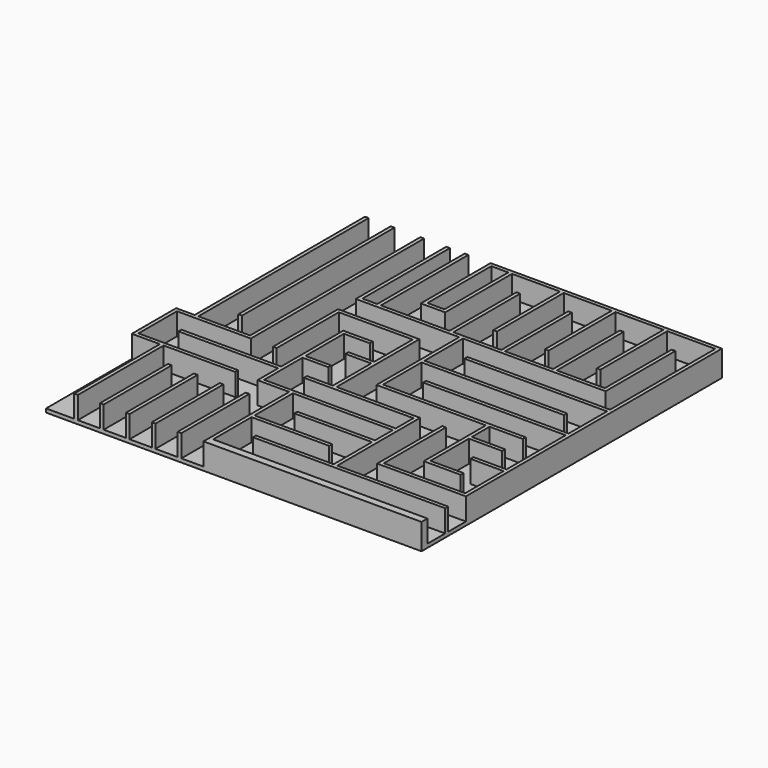
from build123d import *

# Parameters (mm, degrees)
F0_W      = 101.6
F0_H      = 101.6
F1_DEPTH  = 7
F3_DEPTH  = 6
F4_W      = 5
F4_H      = 57.6000098
F5_DEPTH  = 6
F6_W      = 6
F6_H      = 29.5999916
F6_W_2    = 4
F6_W_3    = 4.6
F6_H_2    = 21.5999916
F7_DEPTH  = 6
F9_DEPTH  = 6
F11_DEPTH = 6
F12_W     = 22.6
F12_H     = 1
F13_DEPTH = 6
F15_DEPTH = 6


with BuildPart() as f1:
    # F0 (on Top) → F1 (new body)
    with BuildSketch(Plane.XY):
        Rectangle(F0_W, F0_H)
    extrude(amount=F1_DEPTH)

    # F2 (on face) → F3 (cut)
    with BuildSketch(Plane.XY.offset(7)):
        Polygon((-1.2, -42.8), (-1.2, -41.8), (19.8, -41.8), (19.8, -28.8), (-1.2, -28.8), (-1.2, -27.8), (19.8, -27.8), (19.8, -21.8), (-7.2, -21.8), (-7.2, -34.8), (13.8, -34.8), (13.8, -35.8), (-7.2, -35.8), (-7.2, -48.8), (50.8, -48.8), (50.8, -42.8), align=None)
    extrude(amount=-F3_DEPTH, mode=Mode.SUBTRACT)

    # F4 (on face) → F5 (cut)
    with BuildSketch(Plane.XY.offset(7)):
        with Locations((-48.3, 21.9999951)):
            Rectangle(F4_W, F4_H)
        Polygon((-44.8, 50.8), (-44.8, -6.8000098), (-30.8, -6.8000098), (-30.8, 50.8), (-37.8, 50.8), (-37.8, -0.8000098), (-38.8, -0.8000098), (-38.8, 50.8), align=None)
    extrude(amount=-F5_DEPTH, mode=Mode.SUBTRACT)

    # F6 (on face) → F7 (cut)
    with BuildSketch(Plane.XY.offset(7)):
        with Locations((-26.8, 36.0000042)):
            Rectangle(F6_W, F6_H)
        with Locations((-20.8, 36.0000042)):
            Rectangle(F6_W_2, F6_H)
        Polygon((-17.8, 50.8), (-17.8, 21.2000084), (0.8, 21.2000084), (0.8, 43.8), (1.8, 43.8), (1.8, 21.2000084), (14.8, 21.2000084), (14.8, 43.8), (15.8, 43.8), (15.8, 21.2000084), (28.8, 21.2000084), (28.8, 43.8), (29.8, 43.8), (29.8, 21.2000084), (42.8, 21.2000084), (42.8, 43.8), (43.8, 43.8), (43.8, 21.2000084), (49.8, 21.2000084), (49.8, 49.8), (36.8, 49.8), (36.8, 27.2000084), (35.8, 27.2000084), (35.8, 49.8), (22.8, 49.8), (22.8, 27.2000084), (21.8, 27.2000084), (21.8, 49.8), (8.8, 49.8), (8.8, 27.2000084), (7.8, 27.2000084), (7.8, 49.8), (-5.2, 49.8), (-5.2, 28.2000084), (-5.2, 27.2000084), (-6.2, 27.2000084), (-10.8, 27.2000084), (-11.8, 27.2000084), (-11.8, 28.2000084), (-11.8, 49.8), (-11.8, 50.8), align=None)
        with Locations((-8.5, 39.0000042)):
            Rectangle(F6_W_3, F6_H_2)
    extrude(amount=-F7_DEPTH, mode=Mode.SUBTRACT)

    # F8 (on face) → F9 (cut)
    with BuildSketch(Plane.XY.offset(7)):
        Polygon((-29.8, 21.2000084), (-29.8, 14.2000084), (-1.8, 14.2000084), (-1.8, -13.8), (19.8, -13.8), (20.8, -13.8), (20.8, -41.8), (50.8, -41.8), (50.8, -35.8), (26.8, -35.8), (26.8, -34.8), (26.8, -6.8), (4.2, -6.8), (4.2, 20.2000084), (-22.8, 20.2000084), (-23.8, 20.2000084), (-23.8, 21.2000084), align=None)
    extrude(amount=-F9_DEPTH, mode=Mode.SUBTRACT)

    # F10 (on face) → F11 (cut)
    with BuildSketch(Plane.XY.offset(7)):
        Polygon((49.8, 21.2000084), (43.8, 21.2000084), (43.8, 20.2000084), (5.2, 20.2000084), (5.2, 7.2000084), (43.8, 7.2000084), (43.8, 6.2000084), (5.2, 6.2000084), (5.2, -5.8), (5.2, -6.8), (26.8, -6.8), (43.8, -6.8), (43.8, -7.8), (34.8, -7.8), (34.8, -13.8), (43.8, -13.8), (43.8, -14.8), (34.8, -14.8), (34.8, -27.8), (43.8, -27.8), (43.8, -28.8), (34.8, -28.8), (33.8, -28.8), (33.8, -7.8), (26.8, -7.8), (26.8, -13.8), (27.8, -13.8), (27.8, -34.8), (49.8, -34.8), (49.8, -21.8), (40.8, -21.8), (40.8, -20.8), (49.8, -20.8), (49.8, -7.8), (49.8, -6.8), (49.8, -0.7999916), (11.2, -0.7999916), (11.2, 0.2000084), (49.8, 0.2000084), (49.8, 13.2000084), (11.2, 13.2000084), (11.2, 14.2000084), (49.8, 14.2000084), align=None)
    extrude(amount=-F11_DEPTH, mode=Mode.SUBTRACT)

    # F12 (on face) → F13 (join)
    with BuildSketch(Plane.XY.offset(1)):
        with Locations((15.5, -7.3)):
            Rectangle(F12_W, F12_H)
    extrude(amount=F13_DEPTH)

    # F14 (on face) → F15 (cut)
    with BuildSketch(Plane.XY.offset(7)):
        Polygon((-29.8, -6.8000098), (-29.8, -7.8000098), (-49.8, -7.8000098), (-49.8, -20.8000098), (-22.8, -20.8000098), (-22.8, -21.8), (-42.2, -21.8), (-42.2, -27.8), (-42.2, -50.8), (-36.2, -50.8), (-36.2, -27.8), (-35.2, -27.8), (-35.2, -50.8), (-29.2, -50.8), (-29.2, -27.8), (-28.2, -27.8), (-28.2, -50.8), (-22.2, -50.8), (-22.2, -27.8), (-21.2, -27.8), (-21.2, -50.8), (-15.2, -50.8), (-15.2, -27.8), (-14.2, -27.8), (-14.2, -50.8), (-8.2, -50.8), (-8.2, -21.8), (-16.8, -21.8), (-16.8, -20.8000098), (-16.8, -14.8000098), (-43.8, -14.8000098), (-43.8, -13.8000098), (-16.8, -13.8000098), (-16.8, 7.2000084), (-15.8, 7.2000084), (-8.8, 7.2000084), (-8.8, 6.2000084), (-15.8, 6.2000084), (-15.8, -6.7999916), (-8.8, -6.7999916), (-8.8, -7.7999916), (-15.8, -7.7999916), (-15.8, -14.8000098), (-15.8, -20.8000098), (19.8, -20.8000098), (19.8, -14.8), (-2.8, -14.8), (-9.8, -14.8), (-9.8, -13.8), (-2.8, -13.8), (-2.8, -0.7999916), (-9.8, -0.7999916), (-9.8, 0.2000084), (-2.8, 0.2000084), (-2.8, 13.2000084), (-22.8, 13.2000084), (-22.8, -7.8000098), (-23.8, -7.8000098), (-23.8, 14.2000084), (-29.8, 14.2000084), align=None)
        Polygon((-43.2, -21.8), (-50.8, -21.8), (-50.8, -50.8), (-43.2, -50.8), (-43.2, -27.8), align=None)
    extrude(amount=-F15_DEPTH, mode=Mode.SUBTRACT)


solid = f1.part
